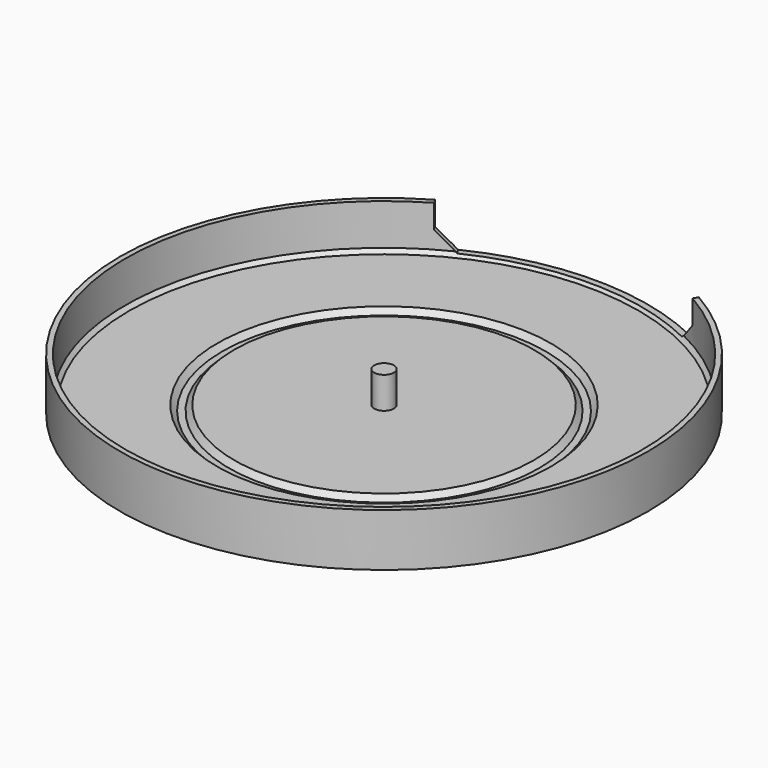
from build123d import *

# Parameters (mm, degrees)
POCKET_DEPTH = 20
CHAMFER_SIZE = 7


with BuildPart() as part:
    # Sketch → Revolution (revolve)
    with BuildSketch(Plane.XZ):
        Polygon((0, 0), (0, 15), (3.75, 15), (3.75, 3), (56.757359, 3), (58.757359, 1), (61.242641, 1), (63.242641, 3), (96.585786, 3), (98, 4.414214), (98, 20), (100, 20), (100, 0), align=None)
    revolve(axis=Axis((0, 0, 0), (0, 0, 1)))

    # Sketch001 (on DatumPlane) → Pocket (cut)
    with BuildSketch(Plane(origin=(0, 0, 4), x_dir=(-1, 0, 0), z_dir=(0, 0, 1))):
        with BuildLine():
            ThreePointArc((-60, -103.923048), (0, -120), (60, -103.923048))
            Line((32.5, -56.291651), (60, -103.923048))
            ThreePointArc((-32.5, -56.291651), (0, -65), (32.5, -56.291651))
            Line((-32.5, -56.291651), (-60, -103.923048))
        make_face()
    extrude(amount=POCKET_DEPTH, mode=Mode.SUBTRACT)

    # Chamfer
    chamfer_edges = [part.edges().sort_by_distance(p)[0] for p in [
        (-49.396447, 85.557155, 4),
        (49.396447, 85.557155, 4),
    ]]
    chamfer(chamfer_edges, length=CHAMFER_SIZE)


solid = part.part
